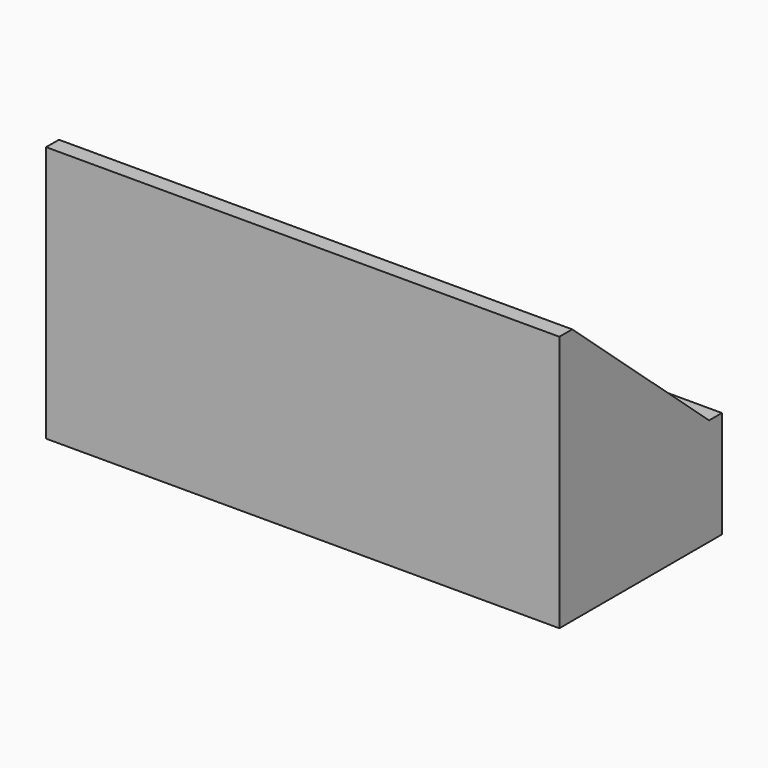
from build123d import *

# Parameters (mm, degrees)
F0_W     = 406.4
F0_H     = 254
F2_W     = 1219.2
F2_H     = 609.6
F4_DEPTH = 38.1
F5_DEPTH = 38.1


with BuildPart() as f3:
    # F0 (on Front) → F3 section 0
    with BuildSketch(Plane.XZ):
        with Locations((-203.2, 127)):
            Rectangle(F0_W, F0_H)
    # F2 (on offset) → F3 section 1
    with BuildSketch(Plane.XZ.offset(406.4)):
        with Locations((-609.6, 304.8)):
            Rectangle(F2_W, F2_H)
    loft()

    # F4 (add): a face of the model
    f4_faces = [f3.faces().sort_by_distance(p)[0] for p in [
        (-203.2, 0, 127),
    ]]
    extrude(f4_faces, amount=F4_DEPTH)

    # F5 (add): a face of the model
    f5_faces = [f3.faces().sort_by_distance(p)[0] for p in [
        (-609.6, -406.4, 304.8),
    ]]
    extrude(f5_faces, amount=F5_DEPTH)


solid = f3.part
